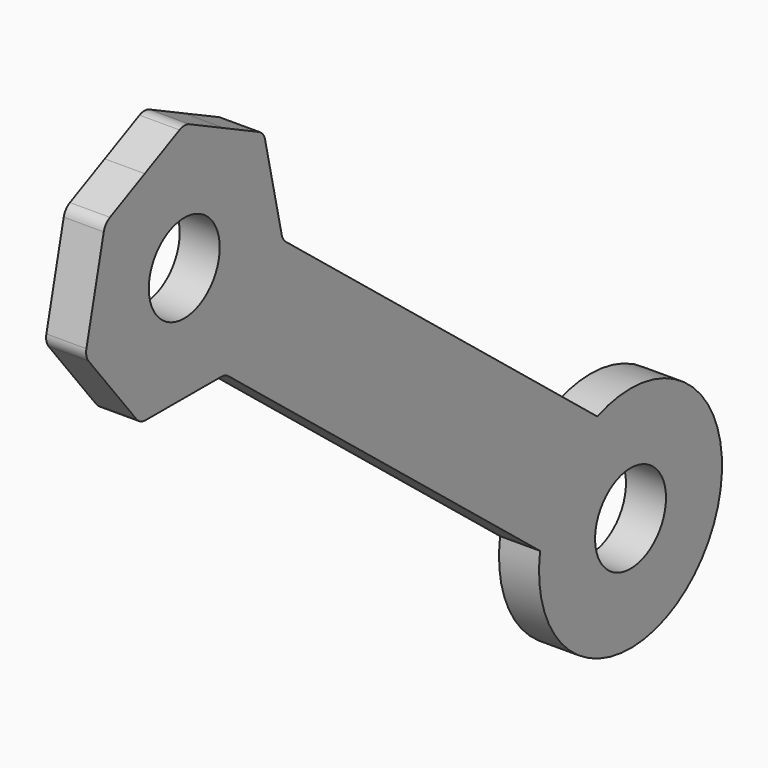
from build123d import *

# Parameters (mm, degrees)
SKETCH043_R  = 3.1
PAD035_DEPTH = 2.8
SKETCH044_R  = 3.1
PAD036_DEPTH = 2.8
FILLET001_R  = 1


with BuildPart() as part:
    # Sketch043 (on DatumPlane) → Pad035 (new body)
    with BuildSketch(Plane.YZ.offset(24.3)):
        with BuildLine():
            ThreePointArc((7.092358, 1.212106), (21.242166, -5.003536), (12.095894, 7.454272))
            Line((12.095894, 7.454272), (-16.105893, 30.059991))
            ThreePointArc((-16.105893, 30.059991), (-30.255701, 36.275633), (-21.109429, 23.817826))
            Line((7.092358, 1.212106), (-21.109429, 23.817826))
        make_face()
        with Locations((15, 0)):
            Circle(SKETCH043_R, mode=Mode.SUBTRACT)
        with Locations((-24.013535, 31.272097)):
            Circle(SKETCH043_R, mode=Mode.SUBTRACT)
    extrude(amount=PAD035_DEPTH)

    # Sketch044 (on Face8 of Pad035) → Pad036 (join)
    with BuildSketch(Plane.YZ.offset(27.1)):
        Polygon((-30.941816, 36.825603), (-32.675153, 29.317903), (-27.886115, 23.281752), (-20.180945, 23.262493), (-15.361794, 29.27463), (-17.05758, 36.790901), (-23.991342, 40.1514), align=None)
        with Locations((-24.013535, 31.272097)):
            Circle(SKETCH044_R, mode=Mode.SUBTRACT)
    extrude(amount=-PAD036_DEPTH)

    # Fillet001
    fillet001_edges = [part.edges().sort_by_distance(p)[0] for p in [
        (25.7, -15.413825, 29.50525),
        (25.7, -17.05758, 36.790901),
        (25.7, -23.991342, 40.1514),
        (25.7, -30.941816, 36.825603),
        (25.7, -32.675153, 29.317903),
        (25.7, -27.886115, 23.281752),
        (25.7, -20.417361, 23.263084),
    ]]
    fillet(fillet001_edges, radius=FILLET001_R)


solid = part.part
